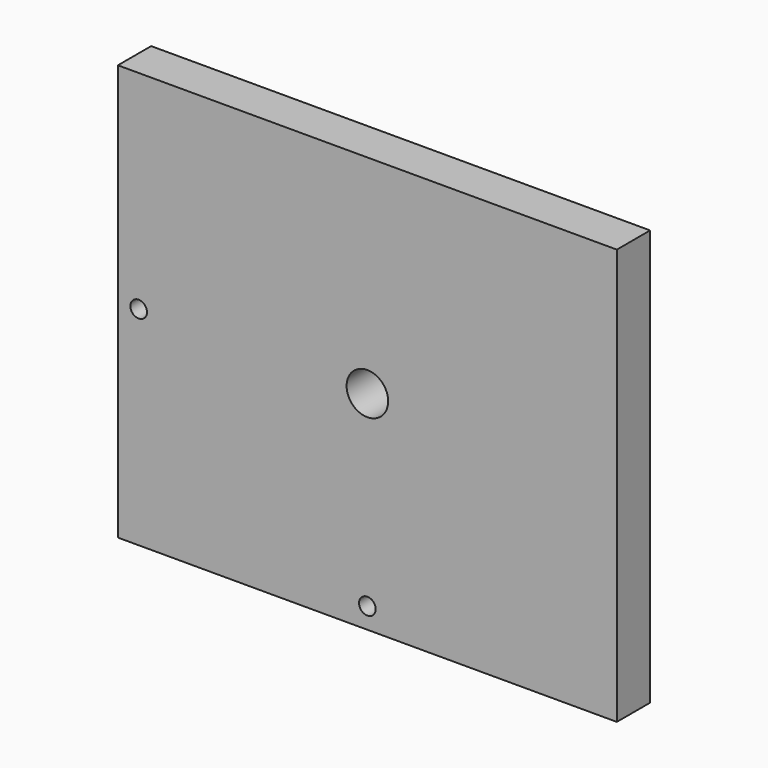
from build123d import *

# Parameters (mm, degrees)
F0_W     = 120
F0_H     = 100
F0_R     = 2
F0_R_2   = 5
F1_DEPTH = 10


with BuildPart() as f1:
    # F0 (on Front) → F1 (new body)
    with BuildSketch(Plane.XZ):
        Rectangle(F0_W, F0_H)
        with Locations((0, -45)):
            Circle(F0_R, mode=Mode.SUBTRACT)
        with Locations((-55, 0)):
            Circle(F0_R, mode=Mode.SUBTRACT)
        Circle(F0_R_2, mode=Mode.SUBTRACT)
    extrude(amount=F1_DEPTH)


solid = f1.part
